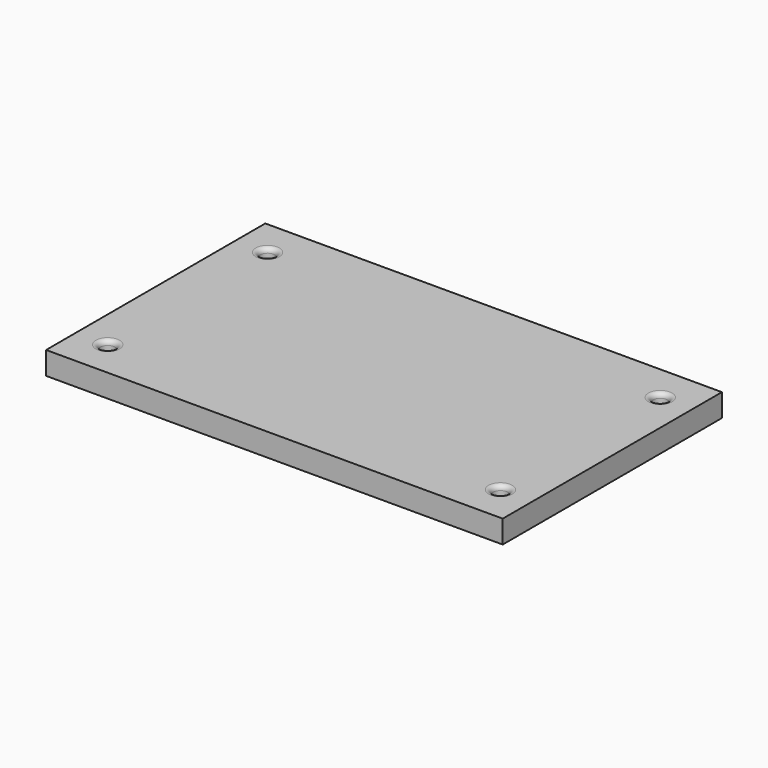
from build123d import *

# Parameters (mm, degrees)
SKETCH004_W     = 100
SKETCH004_H     = 60
PAD002_DEPTH    = 5
SKETCH005_W     = 94
SKETCH005_H     = 54
POCKET001_DEPTH = 3
SKETCH006_R     = 2.5
PAD003_DEPTH    = 6
SKETCH007_R     = 1.6
POCKET002_DEPTH = 8
FILLET001_R     = 1


with BuildPart() as part:
    # Sketch004 → Pad002 (new body)
    with BuildSketch(Plane.XY):
        Rectangle(SKETCH004_W, SKETCH004_H)
    extrude(amount=PAD002_DEPTH)

    # Sketch005 (on Face5 of Pad002) → Pocket001 (cut)
    with BuildSketch(Plane(origin=(0, 0, 0), x_dir=(1, 0, 0), z_dir=(0, 0, -1))):
        Rectangle(SKETCH005_W, SKETCH005_H)
    extrude(amount=-POCKET001_DEPTH, mode=Mode.SUBTRACT)

    # Sketch006 (on Face11 of Pocket001) → Pad003 (join)
    with BuildSketch(Plane(origin=(0, 0, 3), x_dir=(1, 0, 0), z_dir=(0, 0, -1))):
        with Locations((-43, 21.876525)):
            Circle(SKETCH006_R)
        with Locations((-43, -21.876525)):
            Circle(SKETCH006_R)
        with Locations((43, -21.876525)):
            Circle(SKETCH006_R)
        with Locations((43, 21.876525)):
            Circle(SKETCH006_R)
    extrude(amount=PAD003_DEPTH)

    # Sketch007 (on Face16 of Pad003) → Pocket002 (cut)
    with BuildSketch(Plane(origin=(0, 0, -3), x_dir=(0, 1, 0), z_dir=(0, 0, 1))):
        with Locations((-21.876525, 43)):
            Circle(SKETCH007_R)
        with Locations((21.876525, 43)):
            Circle(SKETCH007_R)
        with Locations((-21.876525, -43)):
            Circle(SKETCH007_R)
        with Locations((21.876525, -43)):
            Circle(SKETCH007_R)
    extrude(amount=POCKET002_DEPTH, mode=Mode.SUBTRACT)

    # Fillet001
    fillet001_edges = [part.edges().sort_by_distance(p)[0] for p in [
        (43, -23.476525, 5),
        (43, 20.276525, 5),
        (-43, 20.276525, 5),
        (-43, -23.476525, 5),
    ]]
    fillet(fillet001_edges, radius=FILLET001_R)


solid = part.part
